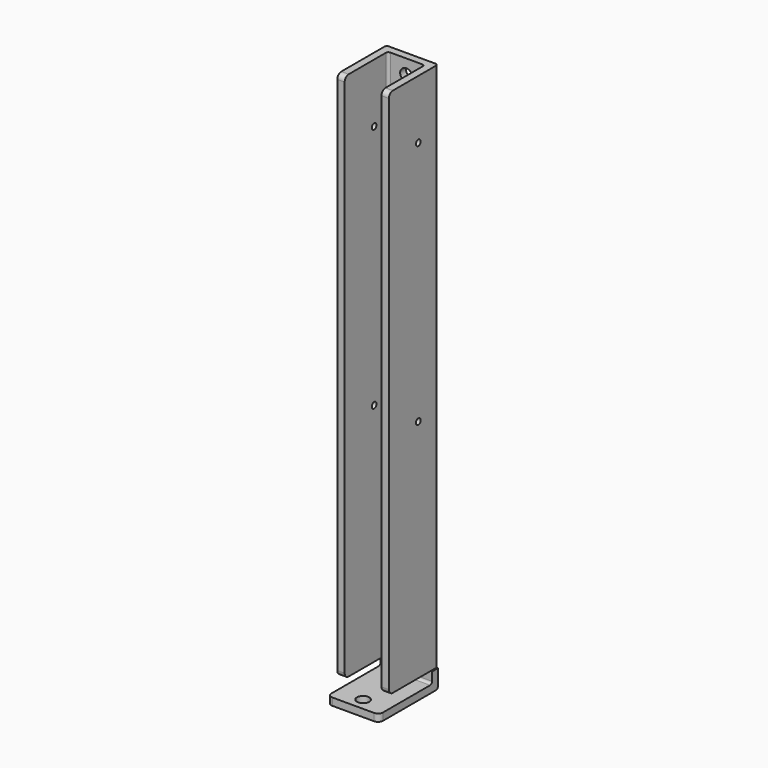
from build123d import *

# Parameters (mm, degrees)
F1_DEPTH  = 15
F2_W      = 3
F2_H      = 216
F3_DEPTH  = 25
F4_R      = 2.5
F5_DEPTH  = 3
F6_W      = 1
F6_H      = 0.5
F7_DEPTH  = 3
F8_R      = 1
F9_R      = 2.5
F9_R_2    = 1.2
F10_DEPTH = 3
F11_R     = 1.2
F12_DEPTH = 34.2
F13_DEPTH = 3
F14_R     = 2


with BuildPart() as f1:
    # F0 (on Right) → F1 (new body)
    with BuildSketch(Plane.YZ):
        Polygon((-7.5968508422, 3), (-7.5968508422, 0), (22.4031491578, 0), (22.4031491578, 224), (19.4031491578, 224), (19.4031491578, 3), align=None)
    extrude(amount=F1_DEPTH)

    # F2 (on face) → F3 (join)
    with BuildSketch(Plane(origin=(0, 22.4031491578, 0), x_dir=(-1, 0, 0), z_dir=(0, 1, 0))):
        with Locations((1.5, 116)):
            Rectangle(F2_W, F2_H)
        with Locations((-16.5, 116)):
            Rectangle(F2_W, F2_H)
    extrude(amount=-F3_DEPTH)

    # F4 (on face) → F5 (cut)
    with BuildSketch(Plane.XY.offset(3)):
        with Locations((7.5, -2.5968508422)):
            Circle(F4_R)
        with Locations((7.5, 12.4031491578)):
            Circle(F4_R)
    extrude(amount=-F5_DEPTH, mode=Mode.SUBTRACT)

    # F6 (on face) → F7 (cut)
    with BuildSketch(Plane.XZ.offset(-19.4031491578)):
        with Locations((0.5, 7.75)):
            Rectangle(F6_W, F6_H)
        with Locations((14.5, 7.75)):
            Rectangle(F6_W, F6_H)
    extrude(amount=-F7_DEPTH, mode=Mode.SUBTRACT)

    # F8
    f8_edges = [f1.edges().sort_by_distance(p)[0] for p in [
        (7.5, 19.403149, 3),
        (7.5, 22.403149, 0),
        (0, 19.403149, 116),
        (-3, 22.403149, 116),
        (18, 22.403149, 116),
        (15, 19.403149, 116),
    ]]
    fillet(f8_edges, radius=F8_R)

    # F9 (on face) → F10 (cut)
    with BuildSketch(Plane.XZ.offset(-19.4031491578)):
        with Locations((7.5, 218)):
            Circle(F9_R)
        with Locations((7.5, 100)):
            Circle(F9_R_2)
        with Locations((7.5, 200)):
            Circle(F9_R_2)
    extrude(amount=-F10_DEPTH, mode=Mode.SUBTRACT)

    # F11 (on face) → F12 (cut)
    with BuildSketch(Plane(origin=(-3, 0, 0), x_dir=(0, -1, 0), z_dir=(-1, 0, 0))):
        with Locations((-12.4031491578, 200)):
            Circle(F11_R)
        with Locations((-12.4031491578, 100)):
            Circle(F11_R)
    extrude(amount=-F12_DEPTH, mode=Mode.SUBTRACT)

    # F13 (add, symmetric): faces of the model
    f13_faces = [f1.faces().sort_by_distance(p)[0] for p in [
        (0, 9.1577983799, 1.9953507779),
        (15, 9.1577983799, 1.9953507779),
    ]]
    extrude(f13_faces, amount=F13_DEPTH, both=True, dir=(-1, 0, 0))

    # F14
    f14_edges = [f1.edges().sort_by_distance(p)[0] for p in [
        (-3, -7.596851, 1.5),
        (18, -7.596851, 1.5),
        (-1.5, -2.596851, 8),
        (16.5, -2.596851, 8),
        (-1.5, -2.596851, 224),
        (16.5, -2.596851, 224),
    ]]
    fillet(f14_edges, radius=F14_R)


solid = f1.part
